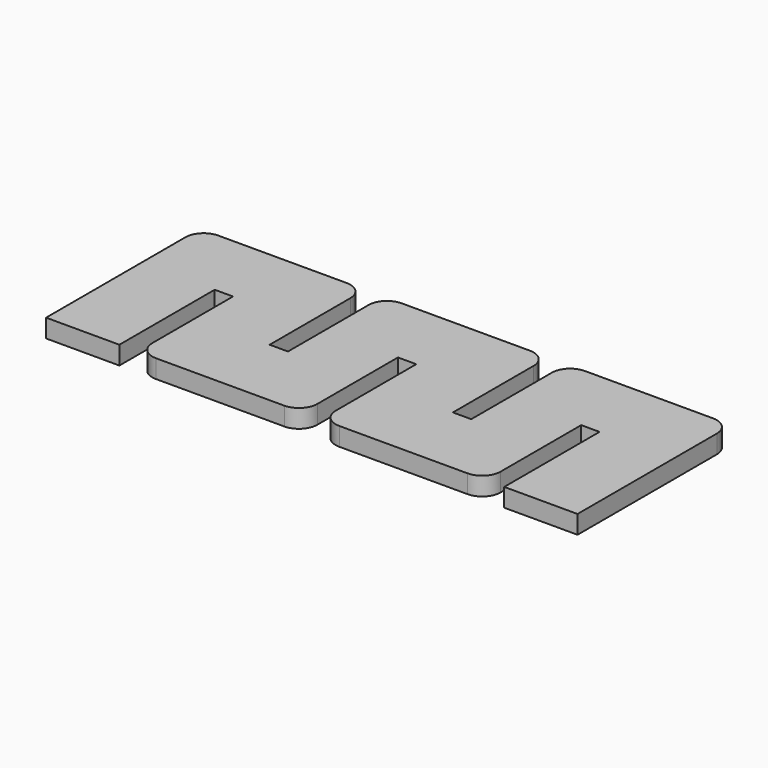
from build123d import *

# Parameters (mm, degrees)
F0_W      = 62
F0_H      = 25
F1_DEPTH  = 1
F3_DEPTH  = 2
F1_FACE_W = 62
F1_FACE_H = 25
F4_DEPTH  = 1


with BuildPart() as f1:
    # F0 (on Top) → F1 (new body)
    with BuildSketch(Plane.XY):
        Rectangle(F0_W, F0_H)
    extrude(amount=F1_DEPTH)

    # F2 (on face) → F3 (join)
    with BuildSketch(Plane.XY.offset(1)):
        with BuildLine():
            Line((-13, 10.5), (-27, 10.5))
            ThreePointArc((-27, 10.5), (-28.414214, 9.914214), (-29, 8.5))
            Line((-29, 8.5), (-29, -10.5))
            Line((-29, -10.5), (-21, -10.5))
            Line((-21, -10.5), (-21, 2.5))
            Line((-21, 2.5), (-19, 2.5))
            Line((-19, 2.5), (-19, -8.5))
            ThreePointArc((-19, -8.5), (-18.414214, -9.914214), (-17, -10.5))
            Line((-17, -10.5), (-3, -10.5))
            ThreePointArc((-3, -10.5), (-1.585786, -9.914214), (-1, -8.5))
            Line((-1, -8.5), (-1, 2.5))
            Line((-1, 2.5), (1, 2.5))
            Line((1, 2.5), (1, -8.5))
            ThreePointArc((1, -8.5), (1.585786, -9.914214), (3, -10.5))
            Line((3, -10.5), (17, -10.5))
            ThreePointArc((17, -10.5), (18.414214, -9.914214), (19, -8.5))
            Line((19, -8.5), (19, 2.5))
            Line((19, 2.5), (21, 2.5))
            Line((21, 2.5), (21, -10.5))
            Line((21, -10.5), (29, -10.5))
            Line((29, -10.5), (29, 8.5))
            ThreePointArc((29, 8.5), (28.414214, 9.914214), (27, 10.5))
            Line((27, 10.5), (13, 10.5))
            ThreePointArc((13, 10.5), (11.585786, 9.914214), (11, 8.5))
            Line((11, 8.5), (11, -2.5))
            Line((11, -2.5), (9, -2.5))
            Line((9, -2.5), (9, 8.5))
            ThreePointArc((9, 8.5), (8.414214, 9.914214), (7, 10.5))
            Line((7, 10.5), (-7, 10.5))
            ThreePointArc((-7, 10.5), (-8.414214, 9.914214), (-9, 8.5))
            Line((-9, 8.5), (-9, -2.5))
            Line((-9, -2.5), (-11, -2.5))
            Line((-11, -2.5), (-11, 8.5))
            ThreePointArc((-11, 8.5), (-11.585786, 9.914214), (-13, 10.5))
        make_face()
    extrude(amount=F3_DEPTH)

    # F1_face (on face) → F4 (cut)
    with BuildSketch(Plane.XY.offset(1)):
        Rectangle(F1_FACE_W, F1_FACE_H)
    extrude(amount=-F4_DEPTH, mode=Mode.SUBTRACT)


solid = f1.part
